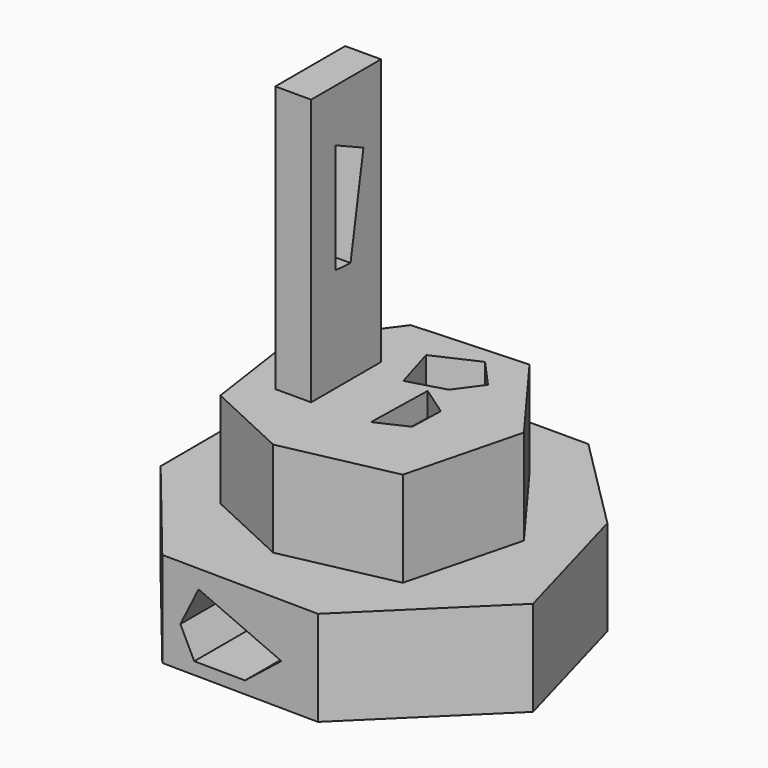
from build123d import *

# Parameters (mm, degrees)
PAD_DEPTH       = 20
PAD001_DEPTH    = 20
SKETCH002_W     = 7.534247
SKETCH002_H     = 18.356169
PAD002_DEPTH    = 56
POCKET_DEPTH    = 5
POCKET001_DEPTH = 40.001
POCKET002_DEPTH = 56.692633
POCKET003_DEPTH = 74.843939


with BuildPart() as part:
    # Sketch → Pad (new body)
    with BuildSketch(Plane.XY):
        Polygon((-40, 30), (-20, 50), (10, 50), (30, 30), (38.36837, 0), (13.027784, -24.842939), (-20, -24.434219), (-39.901337, 0), align=None)
    extrude(amount=PAD_DEPTH)

    # Sketch001 (on Face10 of Pad) → Pad001 (join)
    with BuildSketch(Plane.XY.offset(20)):
        Polygon((-15.172565, 34.803986), (-27.22736, 18.502615), (-23.939688, -4.237112), (-6.268454, -12.456291), (17.019218, -7.524785), (23.183601, 16.584805), (8.800038, 36.036858), align=None)
    extrude(amount=PAD001_DEPTH)

    # Sketch002 (on Face18 of Pad001) → Pad002 (join)
    with BuildSketch(Plane.XY.offset(40)):
        with Locations((-14.5561395, 12.3382465)):
            Rectangle(SKETCH002_W, SKETCH002_H)
    extrude(amount=PAD002_DEPTH)

    # Sketch003 (on Face18 of Pad002) → Pocket (cut)
    with BuildSketch(Plane.XY.offset(40)):
        Polygon((1.600922, 18.280258), (1.261332, 3.813683), (7.577722, 6.734164), (7.781478, 14.001411), align=None)
    extrude(amount=-POCKET_DEPTH, mode=Mode.SUBTRACT)

    # Sketch004 (on Face18 of Pocket) → Pocket001 (cut, through all)
    with BuildSketch(Plane.XY.offset(40)):
        Polygon((-6.566783, 28.06591), (2.529732, 32.209877), (7.987638, 26.145536), (4.045817, 20.788698), (-3.736759, 18.565105), align=None)
    extrude(amount=-POCKET001_DEPTH, mode=Mode.SUBTRACT)

    # Sketch005 (on Face24 of Pocket001) → Pocket002 (cut, through all)
    with BuildSketch(Plane(origin=(-18.323263, 0, 0), x_dir=(0, -1, 0), z_dir=(-1, 0, 0))):
        Polygon((-16.897299, 81.534035), (-9.615451, 84.923866), (-9.615451, 61.822807), (-13.507476, 61.571709), align=None)
    extrude(amount=-POCKET002_DEPTH, mode=Mode.SUBTRACT)

    # Sketch006 (on Face3 of Pocket002) → Pocket003 (cut, through all)
    with BuildSketch(Plane(origin=(0, 50, 0), x_dir=(-1, 0, 0), z_dir=(0, 1, 0))):
        Polygon((-5.278273, 8.691591), (12.302259, 16.17749), (16.158628, 8.464747), (13.209641, 2.566766), (2.434486, 2.566766), align=None)
    extrude(amount=-POCKET003_DEPTH, mode=Mode.SUBTRACT)


solid = part.part
